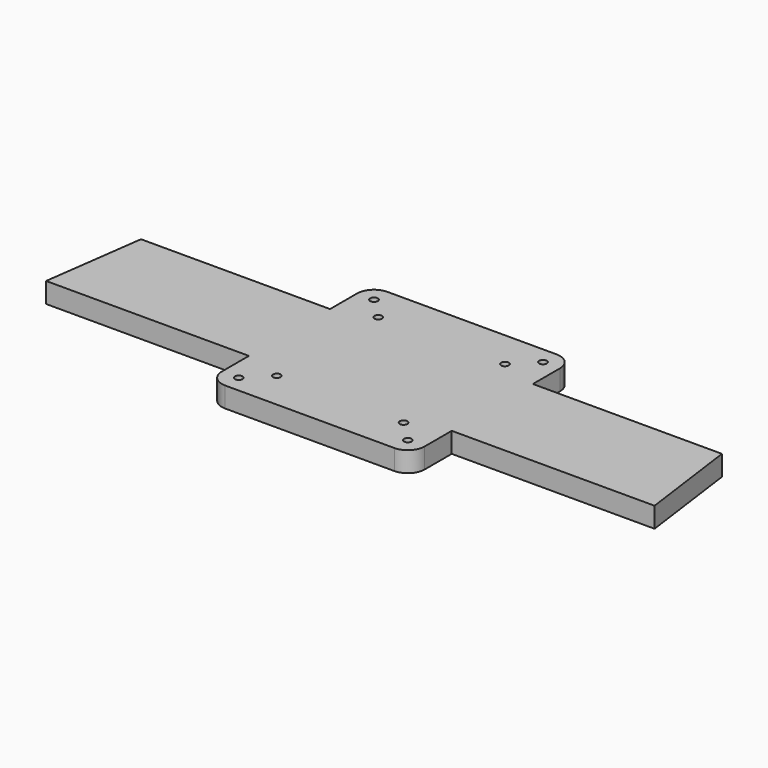
from build123d import *

# Parameters (mm, degrees)
F0_R     = 2.25
F1_DEPTH = 12


with BuildPart() as f1:
    # F0 (on Top) → F1 (new body)
    with BuildSketch(Plane.XY):
        with BuildLine():
            ThreePointArc((-2.382642, 9.855822), (0.54629, 2.784755), (7.617358, -0.144178))
            Line((7.617358, -0.144178), (107.617358, -0.144178))
            ThreePointArc((107.617358, -0.144178), (114.688426, 2.784755), (117.617358, 9.855822))
            Line((117.617358, 9.855822), (117.617358, 29.855822))
            Line((117.617358, 29.855822), (237.617358, 29.855822))
            Line((237.617358, 29.855822), (229.462382, 89.855822))
            Line((229.462382, 89.855822), (117.617358, 89.855822))
            Line((117.617358, 89.855822), (117.617358, 109.855822))
            ThreePointArc((117.617358, 109.855822), (114.688426, 116.92689), (107.617358, 119.855822))
            Line((107.617358, 119.855822), (7.617358, 119.855822))
            ThreePointArc((7.617358, 119.855822), (0.54629, 116.92689), (-2.382642, 109.855822))
            Line((-2.382642, 109.855822), (-2.382642, 89.855822))
            Line((-2.382642, 89.855822), (-114.227666, 89.855822))
            Line((-114.227666, 89.855822), (-122.382642, 29.855822))
            Line((-122.382642, 29.855822), (-2.382642, 29.855822))
            Line((-2.382642, 29.855822), (-2.382642, 9.855822))
        make_face()
        with Locations((7.617358, 9.855822)):
            Circle(F0_R, mode=Mode.SUBTRACT)
        with Locations((20.117358, 22.355822)):
            Circle(F0_R, mode=Mode.SUBTRACT)
        with Locations((107.617358, 9.855822)):
            Circle(F0_R, mode=Mode.SUBTRACT)
        with Locations((95.117358, 22.355822)):
            Circle(F0_R, mode=Mode.SUBTRACT)
        with Locations((20.117358, 97.355822)):
            Circle(F0_R, mode=Mode.SUBTRACT)
        with Locations((7.617358, 109.855822)):
            Circle(F0_R, mode=Mode.SUBTRACT)
        with Locations((95.117358, 97.355822)):
            Circle(F0_R, mode=Mode.SUBTRACT)
        with Locations((107.617358, 109.855822)):
            Circle(F0_R, mode=Mode.SUBTRACT)
    extrude(amount=F1_DEPTH)


solid = f1.part
